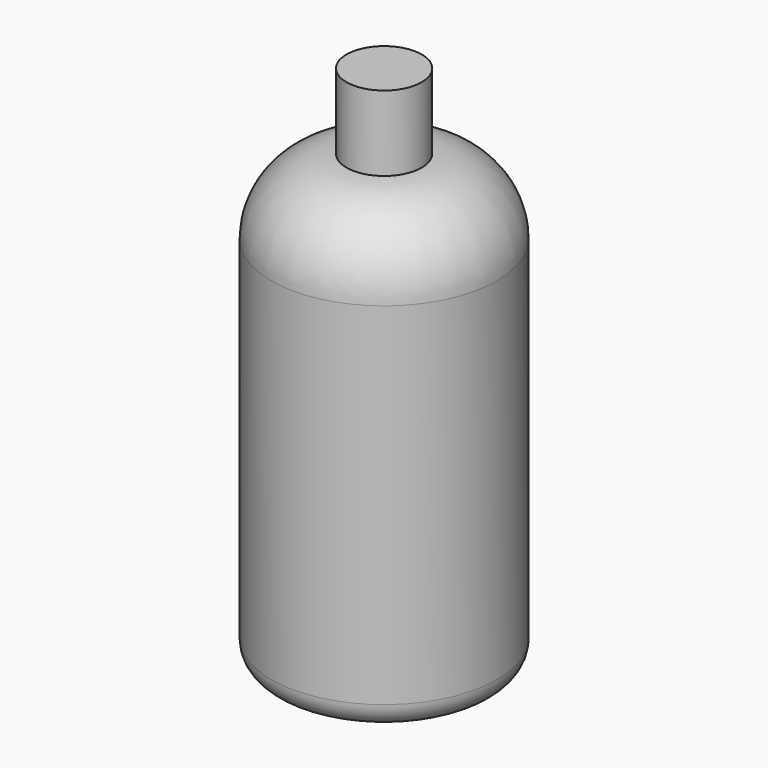
from build123d import *

# Parameters (mm, degrees)
F0_W = 19.05
F0_H = 38.1


with BuildPart() as f1:
    # F0 (on Front) → F1 (revolve)
    with BuildSketch(Plane.XZ):
        with BuildLine():
            Line((12.471101, 203.063402), (-6.578899, 203.063402))
            Line((-6.578899, 203.063402), (-6.578899, -25.536598))
            Line((-6.578899, -25.536598), (37.871101, -25.536598))
            ThreePointArc((37.871101, -25.536598), (46.851357, -21.816854), (50.571101, -12.836598))
            Line((50.571101, -12.836598), (50.571101, 164.963402))
            ThreePointArc((50.571101, 164.963402), (39.41187, 191.90417), (12.471101, 203.063402))
        make_face()
        with Locations((2.946101, 222.113402)):
            Rectangle(F0_W, F0_H)
    revolve(axis=Axis((-6.578899, 0, 107.924627), (0, 0, -1)))


solid = f1.part
